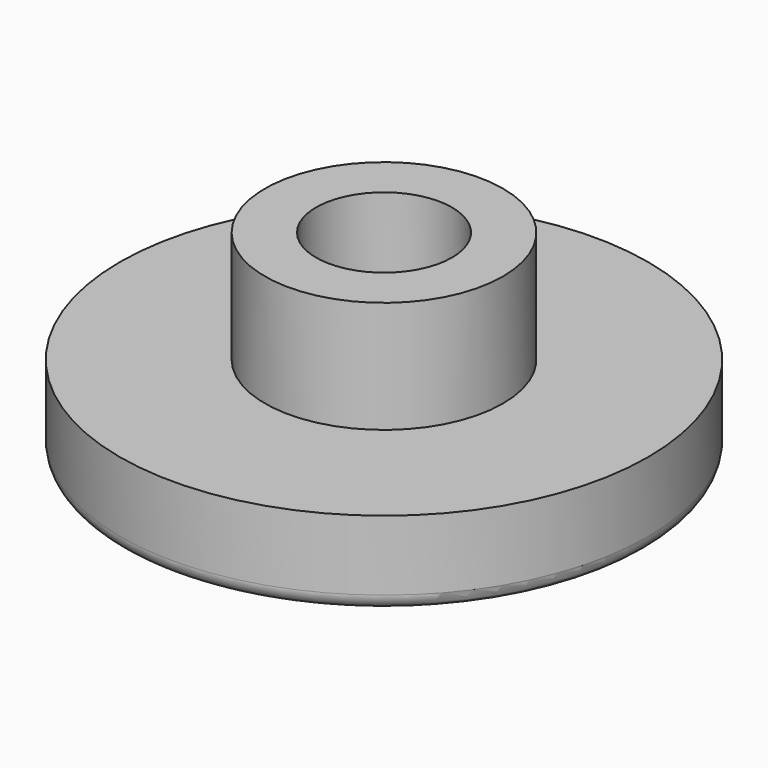
from build123d import *

# Parameters (mm, degrees)
F0_R     = 8.5
F1_DEPTH = 2.75
F2_R     = 3.83
F3_DEPTH = 3.6
F4_R     = 2.1875
F5_DEPTH = 3.2
F6_R     = 0.5


with BuildPart() as f1:
    # F0 (on Top) → F1 (new body)
    with BuildSketch(Plane.XY):
        Circle(F0_R)
    extrude(amount=F1_DEPTH)

    # F2 (on face) → F3 (join)
    with BuildSketch(Plane.XY.offset(2.75)):
        Circle(F2_R)
    extrude(amount=F3_DEPTH)

    # F4 (on face) → F5 (cut)
    with BuildSketch(Plane.XY.offset(6.35)):
        Circle(F4_R)
    extrude(amount=-F5_DEPTH, mode=Mode.SUBTRACT)

    # F6
    f6_edges = [f1.edges().sort_by_distance(p)[0] for p in [
        (-8.5, 0, 0),
    ]]
    fillet(f6_edges, radius=F6_R)


solid = f1.part
